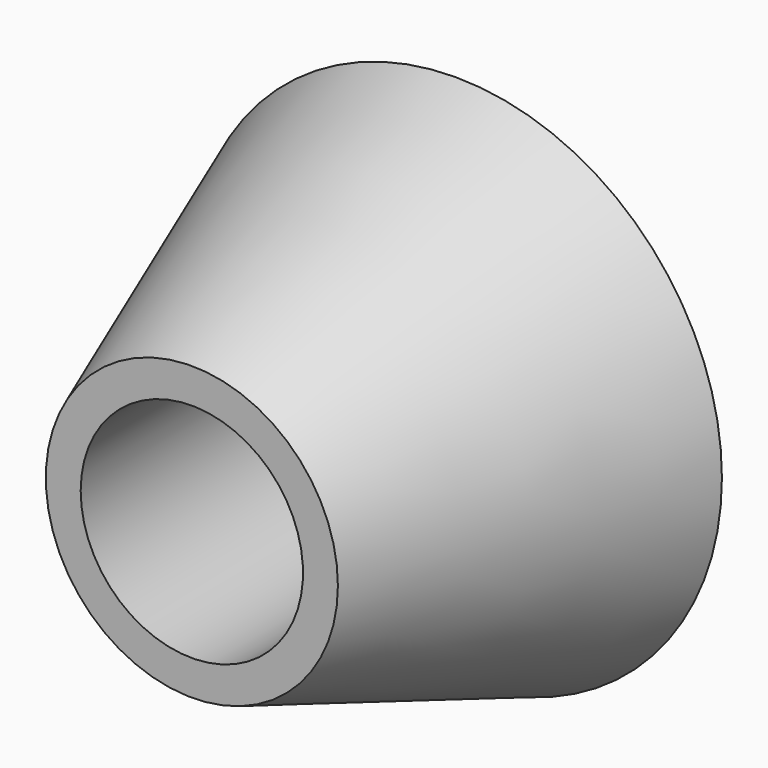
from build123d import *

# Parameters (mm, degrees)
F0_R     = 40.8158952778
F1_DEPTH = 50.6
F1_TAPER = 20
F2_R     = 17.0487588332
F3_DEPTH = 50.6010001


with BuildPart() as f1:
    # F0 (on Front) → F1 (new body)
    with BuildSketch(Plane.XZ):
        Circle(F0_R)
    extrude(amount=F1_DEPTH, taper=F1_TAPER)

    # F2 (on face) → F3 (cut, through all)
    with BuildSketch(Plane(origin=(0, 0, 0), x_dir=(-1, 0, 0), z_dir=(0, 1, 0))):
        Circle(F2_R)
    extrude(amount=-F3_DEPTH, mode=Mode.SUBTRACT)


solid = f1.part
